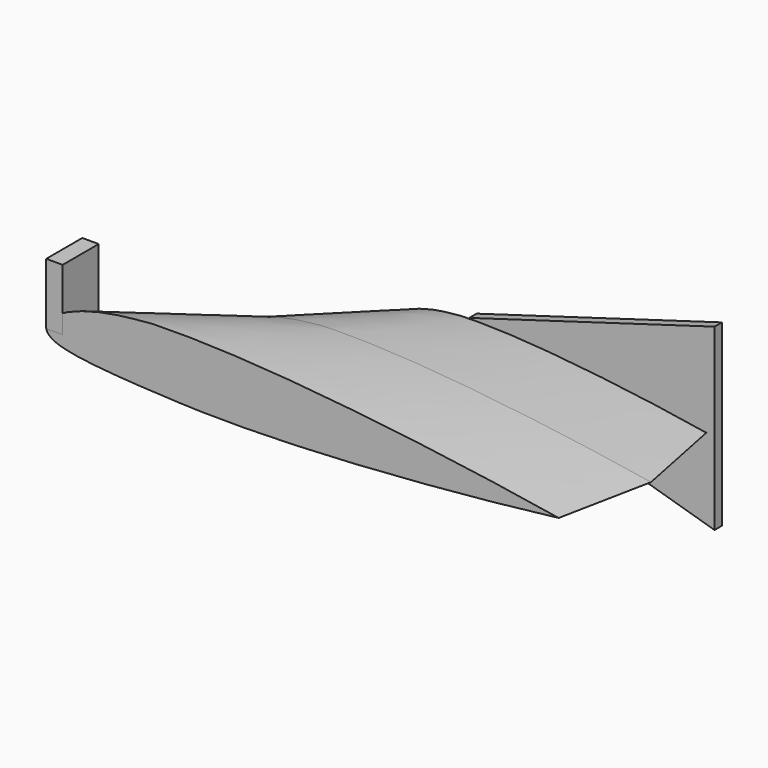
from build123d import *

# Parameters (mm, degrees)
PAD001_DEPTH = 4.5
BOX_W        = 8
BOX_H        = 22
BOX_DEPTH    = 30


with BuildPart() as loft001:
    with BuildSketch(Plane(origin=(104.387807, 0, 2.946359), x_dir=(-1, 0, 0), z_dir=(0, -1, 0))):
        with BuildLine():
            add(Edge.make_bspline(
                [(-145.612193, 2.946359), (-145.529707, 2.932569), (-145.200101, 2.877496), (-144.459723, 2.754063), (-143.229026, 2.549785), (-141.512891, 2.26679), (-139.318128, 1.907978), (-136.653441, 1.476949), (-133.529398, 0.97792), (-129.958385, 0.41563), (-125.954556, -0.204753), (-121.53378, -0.877723), (-116.713568, -1.597523), (-111.513014, -2.35821), (-105.952712, -3.153712), (-100.054673, -3.977869), (-93.842246, -4.824445), (-87.340016, -5.687136), (-80.573716, -6.559553), (-73.570122, -7.435203), (-66.356945, -8.307454), (-58.962731, -9.169514), (-51.41674, -10.014398), (-43.748838, -10.834925), (-35.989374, -11.623712), (-28.169064, -12.373207), (-20.318868, -13.075732), (-12.469867, -13.723558), (-4.653136, -14.309011), (3.100371, -14.824545), (10.759964, -15.263068), (18.295291, -15.617398), (25.676632, -15.882961), (32.874394, -16.048756), (39.861483, -16.130482), (46.605391, -16.053174), (53.058604, -16.066699), (59.250999, -15.290466), (65.236895, -14.79209), (70.984206, -13.980271), (76.36312, -13.021767), (81.337136, -11.894406), (85.876711, -10.627871), (89.955649, -9.245126), (93.552759, -7.774668), (96.652129, -6.245569), (99.243318, -4.685942), (101.322223, -3.121534), (102.888958, -1.569078), (103.950077, -0.040635), (104.48815, 1.487101), (104.487504, 2.474322), (104.387807, 2.946359)],
                knots=[0, 0, 0, 0, 0.001004, 0.00401, 0.009007, 0.015974, 0.024882, 0.035694, 0.048366, 0.062846, 0.079074, 0.096985, 0.116506, 0.137558, 0.160056, 0.183909, 0.209022, 0.235294, 0.262619, 0.290889, 0.319991, 0.349808, 0.380221, 0.411108, 0.442347, 0.473814, 0.505381, 0.536926, 0.568321, 0.599444, 0.630172, 0.660385, 0.689966, 0.718802, 0.746783, 0.773803, 0.799762, 0.824111, 0.8486, 0.871843, 0.893727, 0.91415, 0.93302, 0.950258, 0.965805, 0.979619, 0.991691, 1.002046, 1.010771, 1.018049, 1.024218, 1.02983, 1.02983, 1.02983, 1.02983], degree=3))
            add(Edge.make_bspline(
                [(104.387807, 2.946359), (104.295155, 3.419095), (103.916643, 4.326823), (102.85854, 5.530666), (101.360127, 6.563526), (99.436826, 7.472878), (97.095916, 8.273229), (94.346059, 8.981223), (91.197392, 9.609756), (87.660366, 10.172165), (83.744899, 10.680864), (79.460011, 11.147867), (74.813678, 11.581268), (69.813626, 11.996595), (64.465591, 12.366787), (58.675628, 12.833672), (52.479259, 12.829061), (45.954009, 13.412502), (39.196321, 13.706397), (32.206515, 13.962236), (25.008411, 14.11229), (17.631345, 14.179388), (10.10403, 14.162109), (2.45613, 14.066781), (-5.282322, 13.898387), (-13.08091, 13.662881), (-20.908989, 13.366368), (-28.735793, 13.015153), (-36.530555, 12.615578), (-44.262628, 12.173941), (-51.901604, 11.696426), (-59.417436, 11.18906), (-66.780552, 10.657696), (-73.961978, 10.108011), (-80.933447, 9.545527), (-87.66752, 8.975638), (-94.137687, 8.403643), (-100.31848, 7.834783), (-106.185571, 7.274267), (-111.715873, 6.727289), (-116.887625, 6.19903), (-121.680488, 5.694644), (-126.075614, 5.219221), (-130.055731, 4.777743), (-133.605199, 4.375007), (-136.710081, 4.015554), (-139.358187, 3.703571), (-141.539127, 3.442807), (-143.244346, 3.236475), (-144.467157, 3.087174), (-145.202766, 2.996813), (-145.530242, 2.956464), (-145.612193, 2.946359)],
                knots=[0, 0, 0, 0, 0.005611, 0.011746, 0.018894, 0.027332, 0.037196, 0.048542, 0.061383, 0.075712, 0.091511, 0.108759, 0.127432, 0.147508, 0.168963, 0.191768, 0.217184, 0.243247, 0.270334, 0.298347, 0.32718, 0.356726, 0.386873, 0.417506, 0.448507, 0.479756, 0.511131, 0.54251, 0.573771, 0.60479, 0.635446, 0.665617, 0.695185, 0.724033, 0.752046, 0.779115, 0.80513, 0.829991, 0.853597, 0.875856, 0.896678, 0.915981, 0.933688, 0.949727, 0.964035, 0.976555, 0.987235, 0.996032, 1.002912, 1.007847, 1.010815, 1.011806, 1.011806, 1.011806, 1.011806], degree=3))
        make_face()
    with BuildSketch(Plane(origin=(142.510246, 45, 2.357087), x_dir=(-1, 0, 0), z_dir=(0, -1, 0))):
        with BuildLine():
            add(Edge.make_bspline(
                [(-116.489754, 2.357087), (-116.423766, 2.346055), (-116.16008, 2.301997), (-115.567779, 2.20325), (-114.583221, 2.039828), (-113.210313, 1.813432), (-111.454502, 1.526383), (-109.322753, 1.18156), (-106.823518, 0.782336), (-103.966708, 0.332504), (-100.763645, -0.163802), (-97.227024, -0.702179), (-93.370855, -1.278018), (-89.210412, -1.886568), (-84.762169, -2.52297), (-80.043739, -3.182295), (-75.073797, -3.859556), (-69.872013, -4.549709), (-64.458973, -5.247643), (-58.856097, -5.948162), (-53.085556, -6.645963), (-47.170185, -7.335611), (-41.133392, -8.011519), (-34.99907, -8.66794), (-28.791499, -9.298969), (-22.535252, -9.898565), (-16.255095, -10.460586), (-9.975893, -10.978846), (-3.722509, -11.447209), (2.480297, -11.859636), (8.607971, -12.210455), (14.636233, -12.493918), (20.541306, -12.706369), (26.299515, -12.839005), (31.889186, -12.904386), (37.284313, -12.842539), (42.446883, -12.853359), (47.400799, -12.232373), (52.189516, -11.833672), (56.787365, -11.184217), (61.090496, -10.417413), (65.069709, -9.515525), (68.701369, -8.502297), (71.964519, -7.396101), (74.842208, -6.219735), (77.321703, -4.996455), (79.394655, -3.748754), (81.057778, -2.497227), (82.311166, -1.255262), (83.160062, -0.032508), (83.59052, 1.189681), (83.590003, 1.979458), (83.510246, 2.357087)],
                knots=[0, 0, 0, 0, 0.001004, 0.00401, 0.009007, 0.015974, 0.024882, 0.035694, 0.048366, 0.062846, 0.079074, 0.096985, 0.116506, 0.137558, 0.160056, 0.183909, 0.209022, 0.235294, 0.262619, 0.290889, 0.319991, 0.349808, 0.380221, 0.411108, 0.442347, 0.473814, 0.505381, 0.536926, 0.568321, 0.599444, 0.630172, 0.660385, 0.689966, 0.718802, 0.746783, 0.773803, 0.799762, 0.824111, 0.8486, 0.871843, 0.893727, 0.91415, 0.93302, 0.950258, 0.965805, 0.979619, 0.991691, 1.002046, 1.010771, 1.018049, 1.024218, 1.02983, 1.02983, 1.02983, 1.02983], degree=3))
            add(Edge.make_bspline(
                [(83.510246, 2.357087), (83.436124, 2.735276), (83.133314, 3.461459), (82.286832, 4.424532), (81.088102, 5.250821), (79.549461, 5.978303), (77.676733, 6.618583), (75.476847, 7.184979), (72.957913, 7.687805), (70.128293, 8.137732), (66.995919, 8.544692), (63.568009, 8.918293), (59.850942, 9.265014), (55.850901, 9.597276), (51.572473, 9.893429), (46.940502, 10.266937), (41.983408, 10.263249), (36.763207, 10.730002), (31.357057, 10.965117), (25.765212, 11.169789), (20.006729, 11.289832), (14.105076, 11.34351), (8.083224, 11.329687), (1.964904, 11.253425), (-4.225857, 11.118709), (-10.464728, 10.930304), (-16.727192, 10.693094), (-22.988634, 10.412123), (-29.224444, 10.092463), (-35.410102, 9.739153), (-41.521283, 9.357141), (-47.533949, 8.951248), (-53.424442, 8.526157), (-59.169582, 8.086409), (-64.746758, 7.636422), (-70.134016, 7.18051), (-75.310149, 6.722914), (-80.254784, 6.267826), (-84.948457, 5.819414), (-89.372698, 5.381831), (-93.5101, 4.959224), (-97.34439, 4.555715), (-100.860491, 4.175377), (-104.044584, 3.822194), (-106.884159, 3.500006), (-109.368065, 3.212443), (-111.48655, 2.962857), (-113.231302, 2.754246), (-114.595477, 2.58918), (-115.573726, 2.469739), (-116.162213, 2.39745), (-116.424193, 2.365171), (-116.489754, 2.357087)],
                knots=[0, 0, 0, 0, 0.005611, 0.011746, 0.018894, 0.027332, 0.037196, 0.048542, 0.061383, 0.075712, 0.091511, 0.108759, 0.127432, 0.147508, 0.168963, 0.191768, 0.217184, 0.243247, 0.270334, 0.298347, 0.32718, 0.356726, 0.386873, 0.417506, 0.448507, 0.479756, 0.511131, 0.54251, 0.573771, 0.60479, 0.635446, 0.665617, 0.695185, 0.724033, 0.752046, 0.779115, 0.80513, 0.829991, 0.853597, 0.875856, 0.896678, 0.915981, 0.933688, 0.949727, 0.964035, 0.976555, 0.987235, 0.996032, 1.002912, 1.007847, 1.010815, 1.011806, 1.011806, 1.011806, 1.011806], degree=3))
        make_face()
    loft()


with BuildPart() as body001:
    # Sketch001 → Pad001 (new body)
    with BuildSketch(Plane.XZ):
        Polygon((-116.312698, 11.183651), (-116.312698, -5.838443), (3.372823, -41.003093), (3.372823, 46.348301), align=None)
    extrude(amount=PAD001_DEPTH)


with BuildPart() as body001_1:
    # Body001 placement: moved
    add(body001.part.moved(Location((250, 95.3, 0))))


with BuildPart() as fusion:
    with BuildSketch(Plane(origin=(142.510246, 45, 2.357087), x_dir=(-1, 0, 0), z_dir=(0, -1, 0))):
        with BuildLine():
            add(Edge.make_bspline(
                [(-116.489754, 2.357087), (-116.423766, 2.346055), (-116.16008, 2.301997), (-115.567779, 2.20325), (-114.583221, 2.039828), (-113.210313, 1.813432), (-111.454502, 1.526383), (-109.322753, 1.18156), (-106.823518, 0.782336), (-103.966708, 0.332504), (-100.763645, -0.163802), (-97.227024, -0.702179), (-93.370855, -1.278018), (-89.210412, -1.886568), (-84.762169, -2.52297), (-80.043739, -3.182295), (-75.073797, -3.859556), (-69.872013, -4.549709), (-64.458973, -5.247643), (-58.856097, -5.948162), (-53.085556, -6.645963), (-47.170185, -7.335611), (-41.133392, -8.011519), (-34.99907, -8.66794), (-28.791499, -9.298969), (-22.535252, -9.898565), (-16.255095, -10.460586), (-9.975893, -10.978846), (-3.722509, -11.447209), (2.480297, -11.859636), (8.607971, -12.210455), (14.636233, -12.493918), (20.541306, -12.706369), (26.299515, -12.839005), (31.889186, -12.904386), (37.284313, -12.842539), (42.446883, -12.853359), (47.400799, -12.232373), (52.189516, -11.833672), (56.787365, -11.184217), (61.090496, -10.417413), (65.069709, -9.515525), (68.701369, -8.502297), (71.964519, -7.396101), (74.842208, -6.219735), (77.321703, -4.996455), (79.394655, -3.748754), (81.057778, -2.497227), (82.311166, -1.255262), (83.160062, -0.032508), (83.59052, 1.189681), (83.590003, 1.979458), (83.510246, 2.357087)],
                knots=[0, 0, 0, 0, 0.001004, 0.00401, 0.009007, 0.015974, 0.024882, 0.035694, 0.048366, 0.062846, 0.079074, 0.096985, 0.116506, 0.137558, 0.160056, 0.183909, 0.209022, 0.235294, 0.262619, 0.290889, 0.319991, 0.349808, 0.380221, 0.411108, 0.442347, 0.473814, 0.505381, 0.536926, 0.568321, 0.599444, 0.630172, 0.660385, 0.689966, 0.718802, 0.746783, 0.773803, 0.799762, 0.824111, 0.8486, 0.871843, 0.893727, 0.91415, 0.93302, 0.950258, 0.965805, 0.979619, 0.991691, 1.002046, 1.010771, 1.018049, 1.024218, 1.02983, 1.02983, 1.02983, 1.02983], degree=3))
            add(Edge.make_bspline(
                [(83.510246, 2.357087), (83.436124, 2.735276), (83.133314, 3.461459), (82.286832, 4.424532), (81.088102, 5.250821), (79.549461, 5.978303), (77.676733, 6.618583), (75.476847, 7.184979), (72.957913, 7.687805), (70.128293, 8.137732), (66.995919, 8.544692), (63.568009, 8.918293), (59.850942, 9.265014), (55.850901, 9.597276), (51.572473, 9.893429), (46.940502, 10.266937), (41.983408, 10.263249), (36.763207, 10.730002), (31.357057, 10.965117), (25.765212, 11.169789), (20.006729, 11.289832), (14.105076, 11.34351), (8.083224, 11.329687), (1.964904, 11.253425), (-4.225857, 11.118709), (-10.464728, 10.930304), (-16.727192, 10.693094), (-22.988634, 10.412123), (-29.224444, 10.092463), (-35.410102, 9.739153), (-41.521283, 9.357141), (-47.533949, 8.951248), (-53.424442, 8.526157), (-59.169582, 8.086409), (-64.746758, 7.636422), (-70.134016, 7.18051), (-75.310149, 6.722914), (-80.254784, 6.267826), (-84.948457, 5.819414), (-89.372698, 5.381831), (-93.5101, 4.959224), (-97.34439, 4.555715), (-100.860491, 4.175377), (-104.044584, 3.822194), (-106.884159, 3.500006), (-109.368065, 3.212443), (-111.48655, 2.962857), (-113.231302, 2.754246), (-114.595477, 2.58918), (-115.573726, 2.469739), (-116.162213, 2.39745), (-116.424193, 2.365171), (-116.489754, 2.357087)],
                knots=[0, 0, 0, 0, 0.005611, 0.011746, 0.018894, 0.027332, 0.037196, 0.048542, 0.061383, 0.075712, 0.091511, 0.108759, 0.127432, 0.147508, 0.168963, 0.191768, 0.217184, 0.243247, 0.270334, 0.298347, 0.32718, 0.356726, 0.386873, 0.417506, 0.448507, 0.479756, 0.511131, 0.54251, 0.573771, 0.60479, 0.635446, 0.665617, 0.695185, 0.724033, 0.752046, 0.779115, 0.80513, 0.829991, 0.853597, 0.875856, 0.896678, 0.915981, 0.933688, 0.949727, 0.964035, 0.976555, 0.987235, 0.996032, 1.002912, 1.007847, 1.010815, 1.011806, 1.011806, 1.011806, 1.011806], degree=3))
        make_face()
    with BuildSketch(Plane(origin=(162.632684, 90, 1.767815), x_dir=(-1, 0, 0), z_dir=(0, -1, 0))):
        with BuildLine():
            add(Edge.make_bspline(
                [(-87.367316, 1.767815), (-87.317824, 1.759541), (-87.12006, 1.726498), (-86.675834, 1.652438), (-85.937416, 1.529871), (-84.907735, 1.360074), (-83.590877, 1.144787), (-81.992065, 0.88617), (-80.117639, 0.586752), (-77.975031, 0.249378), (-75.572734, -0.122852), (-72.920268, -0.526634), (-70.028141, -0.958514), (-66.907809, -1.414926), (-63.571627, -1.892227), (-60.032804, -2.386721), (-56.305347, -2.894667), (-52.40401, -3.412282), (-48.34423, -3.935732), (-44.142073, -4.461122), (-39.814167, -4.984472), (-35.377638, -5.501708), (-30.850044, -6.008639), (-26.249303, -6.500955), (-21.593624, -6.974227), (-16.901439, -7.423924), (-12.191321, -7.845439), (-7.48192, -8.234135), (-2.791882, -8.585407), (1.860222, -8.894727), (6.455979, -9.157841), (10.977175, -9.370439), (15.405979, -9.529777), (19.724637, -9.629253), (23.91689, -9.678289), (27.963235, -9.631904), (31.835162, -9.640019), (35.550599, -9.17428), (39.142137, -8.875254), (42.590523, -8.388163), (45.817872, -7.81306), (48.802282, -7.136644), (51.526027, -6.376723), (53.973389, -5.547076), (56.131656, -4.664801), (57.991277, -3.747341), (59.545991, -2.811565), (60.793334, -1.872921), (61.733375, -0.941447), (62.370046, -0.024381), (62.69289, 0.892261), (62.692502, 1.484593), (62.632684, 1.767815)],
                knots=[0, 0, 0, 0, 0.001004, 0.00401, 0.009007, 0.015974, 0.024882, 0.035694, 0.048366, 0.062846, 0.079074, 0.096985, 0.116506, 0.137558, 0.160056, 0.183909, 0.209022, 0.235294, 0.262619, 0.290889, 0.319991, 0.349808, 0.380221, 0.411108, 0.442347, 0.473814, 0.505381, 0.536926, 0.568321, 0.599444, 0.630172, 0.660385, 0.689966, 0.718802, 0.746783, 0.773803, 0.799762, 0.824111, 0.8486, 0.871843, 0.893727, 0.91415, 0.93302, 0.950258, 0.965805, 0.979619, 0.991691, 1.002046, 1.010771, 1.018049, 1.024218, 1.02983, 1.02983, 1.02983, 1.02983], degree=3))
            add(Edge.make_bspline(
                [(62.632684, 1.767815), (62.577093, 2.051457), (62.349986, 2.596094), (61.715124, 3.318399), (60.816076, 3.938116), (59.662096, 4.483727), (58.25755, 4.963937), (56.607635, 5.388734), (54.718435, 5.765853), (52.59622, 6.103299), (50.246939, 6.408519), (47.676007, 6.68872), (44.888207, 6.948761), (41.888176, 7.197957), (38.679355, 7.420072), (35.205377, 7.700203), (31.487556, 7.697436), (27.572406, 8.047501), (23.517792, 8.223838), (19.323909, 8.377342), (15.005046, 8.467374), (10.578807, 8.507633), (6.062418, 8.497265), (1.473678, 8.440069), (-3.169393, 8.339032), (-7.848546, 8.197728), (-12.545394, 8.019821), (-17.241476, 7.809092), (-21.918333, 7.569347), (-26.557577, 7.304365), (-31.140962, 7.017856), (-35.650462, 6.713436), (-40.068331, 6.394618), (-44.377187, 6.064807), (-48.560068, 5.727316), (-52.600512, 5.385383), (-56.482612, 5.042186), (-60.191088, 4.70087), (-63.711343, 4.36456), (-67.029524, 4.036374), (-70.132575, 3.719418), (-73.008293, 3.416786), (-75.645369, 3.131533), (-78.033438, 2.866646), (-80.16312, 2.625004), (-82.026049, 2.409332), (-83.614912, 2.222143), (-84.923476, 2.065684), (-85.946608, 1.941885), (-86.680294, 1.852304), (-87.12166, 1.798088), (-87.318145, 1.773878), (-87.367316, 1.767815)],
                knots=[0, 0, 0, 0, 0.005611, 0.011746, 0.018894, 0.027332, 0.037196, 0.048542, 0.061383, 0.075712, 0.091511, 0.108759, 0.127432, 0.147508, 0.168963, 0.191768, 0.217184, 0.243247, 0.270334, 0.298347, 0.32718, 0.356726, 0.386873, 0.417506, 0.448507, 0.479756, 0.511131, 0.54251, 0.573771, 0.60479, 0.635446, 0.665617, 0.695185, 0.724033, 0.752046, 0.779115, 0.80513, 0.829991, 0.853597, 0.875856, 0.896678, 0.915981, 0.933688, 0.949727, 0.964035, 0.976555, 0.987235, 0.996032, 1.002912, 1.007847, 1.010815, 1.011806, 1.011806, 1.011806, 1.011806], degree=3))
        make_face()
    loft()

    # Fusion: union Loft001, Body001
    add(loft001.part)
    add(body001_1.part)


with BuildPart() as envelope:
    # Box → Box (new body)
    with BuildSketch(Plane.XY):
        with Locations((4, 11)):
            Rectangle(BOX_W, BOX_H)
    extrude(amount=BOX_DEPTH)


solid = Compound([fusion.part, envelope.part])
